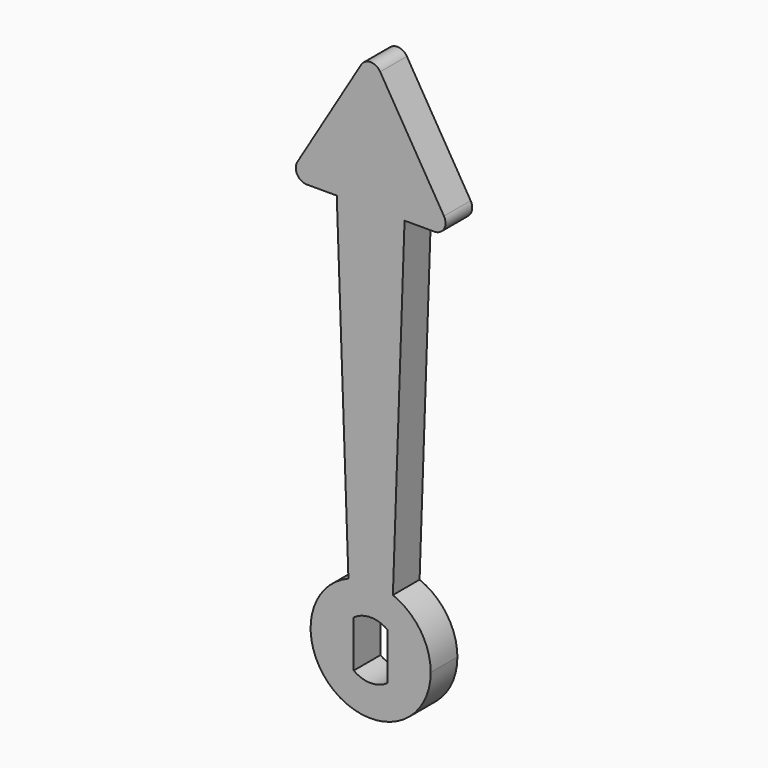
from build123d import *

# Parameters (mm, degrees)
F1_DEPTH = 3
F2_R     = 1
F3_R     = 1
F4_R     = 1


with BuildPart() as f1:
    # F0 (on Front) → F1 (new body)
    with BuildSketch(Plane.XZ):
        with BuildLine():
            ThreePointArc((-2, 5.0159744816), (-3.0298514815, -4.4698993277), (5.4, 0))
            ThreePointArc((5.4, 0), (4.4698993277, 3.0298514815), (2, 5.0159744816))
            Line((2, 5.0159744816), (0, 5.0159744816))
            Line((0, 5.0159744816), (-2, 5.0159744816))
        make_face()
        with BuildLine():
            ThreePointArc((1.525, 2.1057955741), (2.3157072354, 1.1821590418), (2.6, 0))
            ThreePointArc((2.6, 0), (2.3157072354, -1.1821590418), (1.525, -2.1057955741))
            ThreePointArc((1.525, -2.1057955741), (0, -2.6), (-1.525, -2.1057955741))
            ThreePointArc((-1.525, -2.1057955741), (-2.6, 0), (-1.525, 2.1057955741))
            ThreePointArc((-1.525, 2.1057955741), (0, 2.6), (1.525, 2.1057955741))
        make_face(mode=Mode.SUBTRACT)
        with BuildLine():
            Line((0, 5.0159744816), (2, 5.0159744816))
            ThreePointArc((2, 5.0159744816), (0, 5.4), (-2, 5.0159744816))
            Line((-2, 5.0159744816), (0, 5.0159744816))
        make_face()
        with BuildLine():
            ThreePointArc((-2, 5.0159744816), (0, 5.4), (2, 5.0159744816))
            Line((2, 5.0159744816), (3.0470652436, 35))
            Line((3.0470652436, 35), (0, 35))
            Line((0, 35), (-3.0470652436, 35))
            Line((-3.0470652436, 35), (-2, 5.0159744816))
        make_face()
        Polygon((0, 35), (3.0470652436, 35), (7.5, 35), (0, 47.5), (-7.5, 35), (-3.0470652436, 35), align=None)
        with BuildLine():
            ThreePointArc((1.525, -2.1057955741), (2.3157072354, -1.1821590418), (2.6, 0))
            ThreePointArc((2.6, 0), (2.3157072354, 1.1821590418), (1.525, 2.1057955741))
            Line((1.525, 2.1057955741), (1.525, -2.1057955741))
        make_face()
        with BuildLine():
            Line((-1.525, -2.1057955741), (-1.525, 2.1057955741))
            ThreePointArc((-1.525, 2.1057955741), (-2.6, 0), (-1.525, -2.1057955741))
        make_face()
    extrude(amount=F1_DEPTH)

    # F2
    f2_edges = [f1.edges().sort_by_distance(p)[0] for p in [
        (0, -1.5, 47.5),
    ]]
    fillet(f2_edges, radius=F2_R)

    # F3
    f3_edges = [f1.edges().sort_by_distance(p)[0] for p in [
        (-7.5, -1.5, 35),
    ]]
    fillet(f3_edges, radius=F3_R)

    # F4
    f4_edges = [f1.edges().sort_by_distance(p)[0] for p in [
        (7.5, -1.5, 35),
    ]]
    fillet(f4_edges, radius=F4_R)


solid = f1.part
